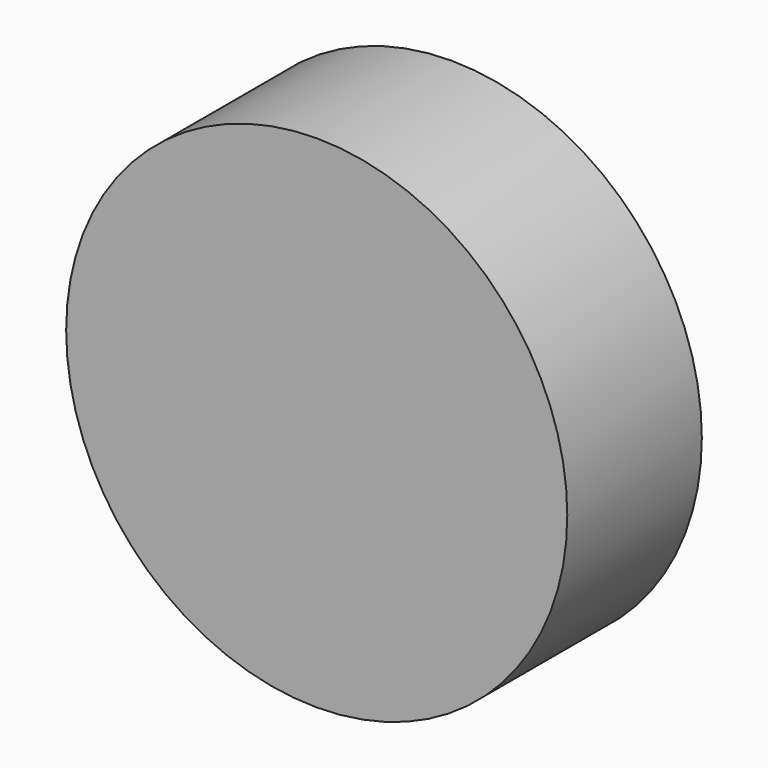
from build123d import *

# Parameters (mm, degrees)
F0_W     = 105.155996
F0_H     = 56.692802
F1_DEPTH = 192.024
F2_R     = 381
F3_DEPTH = 255.778


with BuildPart() as f1:
    # F0 (on Front) → F1 (new body)
    with BuildSketch(Plane.XZ):
        Rectangle(F0_W, F0_H)
    extrude(amount=-F1_DEPTH)

    # F2 (on Front) → F3 (join)
    with BuildSketch(Plane.XZ):
        with Locations((0, -14.881819)):
            Circle(F2_R)
    extrude(amount=F3_DEPTH)


solid = f1.part
